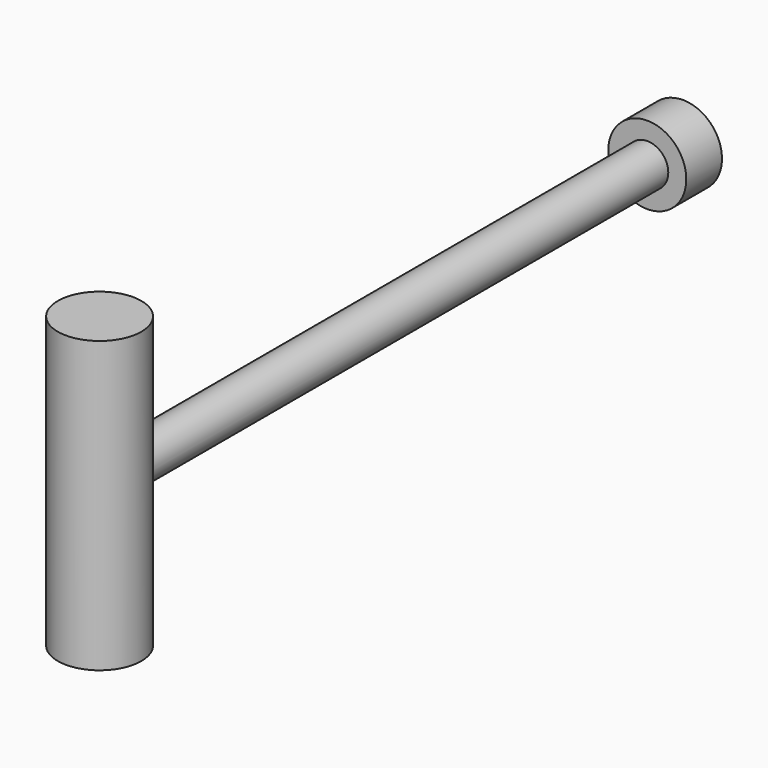
from build123d import *

# Parameters (mm, degrees)
F0_R     = 2.865
F1_DEPTH = 19.88
F3_R     = 1.44
F4_DEPTH = 50
F5_R     = 2.675
F5_R_2   = 1.44
F6_DEPTH = 3.06


with BuildPart() as f1:
    # F0 (on Top) → F1 (new body)
    with BuildSketch(Plane.XY):
        Circle(F0_R)
    extrude(amount=F1_DEPTH)

    # F3 (on Front) → F4 (join)
    with BuildSketch(Plane.XZ):
        with Locations((0, 9.94)):
            Circle(F3_R)
    extrude(amount=-F4_DEPTH)

    # F5 (on face) → F6 (join)
    with BuildSketch(Plane(origin=(0, 50, 0), x_dir=(-1, 0, 0), z_dir=(0, 1, 0))):
        with Locations((0, 9.94)):
            Circle(F5_R)
        with Locations((0, 9.94)):
            Circle(F5_R_2, mode=Mode.SUBTRACT)
    extrude(amount=-F6_DEPTH)


solid = f1.part
